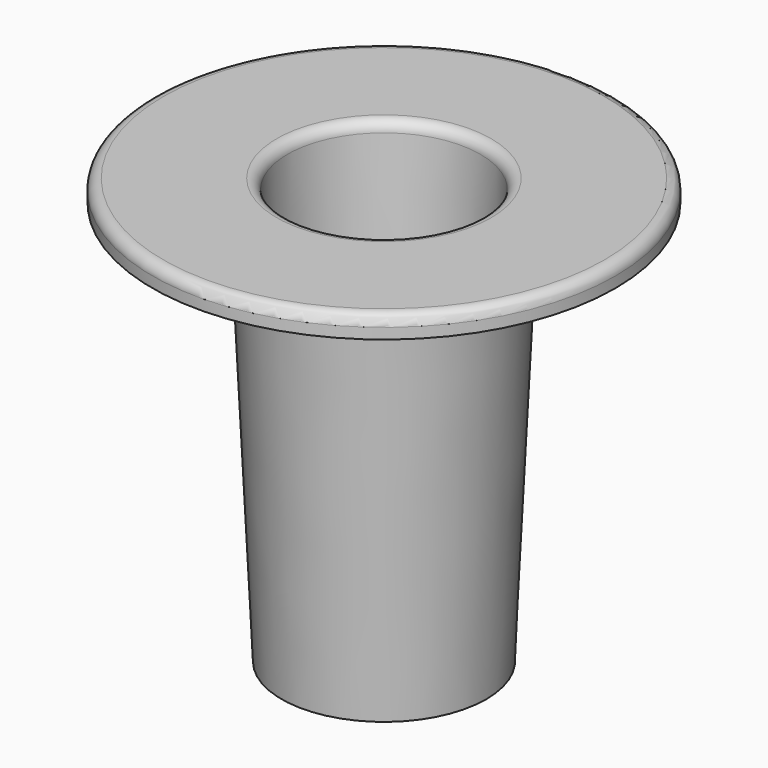
from build123d import *

# Parameters (mm, degrees)
FILLET_R = 1


with BuildPart() as part:
    # Sketch → Revolution (revolve)
    with BuildSketch(Plane.XZ):
        Polygon((9, 39.5), (21.5, 39.5), (21.5, 37.5), (11.25, 37.5), (9.5, 0), (4, 0), (4, 2), (7.25, 2), align=None)
    revolve(axis=Axis((0, 0, 0), (0, 0, 1)))

    # Fillet
    fillet_edges = [part.edges().sort_by_distance(p)[0] for p in [
        (-21.5, 0, 39.5),
        (-9, 0, 39.5),
    ]]
    fillet(fillet_edges, radius=FILLET_R)


solid = part.part
